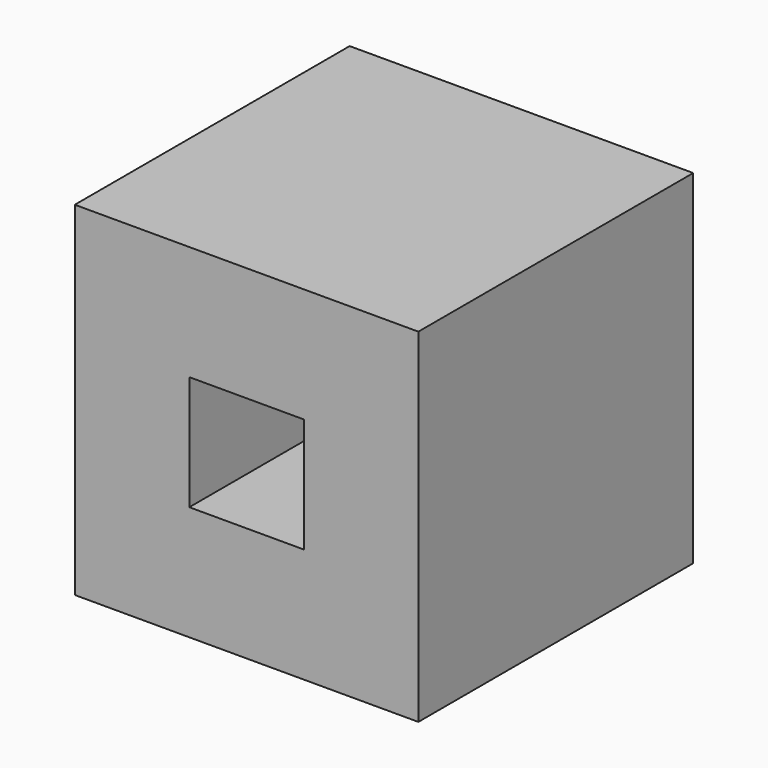
from build123d import *

# Parameters (mm, degrees)
F0_W     = 76.2
F0_H     = 76.2
F1_DEPTH = 38.1
F3_W     = 25.4
F3_H     = 25.4
F4_DEPTH = 76.201


with BuildPart() as f1:
    # F0 (on Front) → F1 (new body, symmetric)
    with BuildSketch(Plane.XZ):
        Rectangle(F0_W, F0_H)
    extrude(amount=F1_DEPTH, both=True)

    # F3 (on face) → F4 (cut, through all)
    with BuildSketch(Plane.XZ.offset(38.1)):
        Rectangle(F3_W, F3_H)
    extrude(amount=-F4_DEPTH, mode=Mode.SUBTRACT)


solid = f1.part
